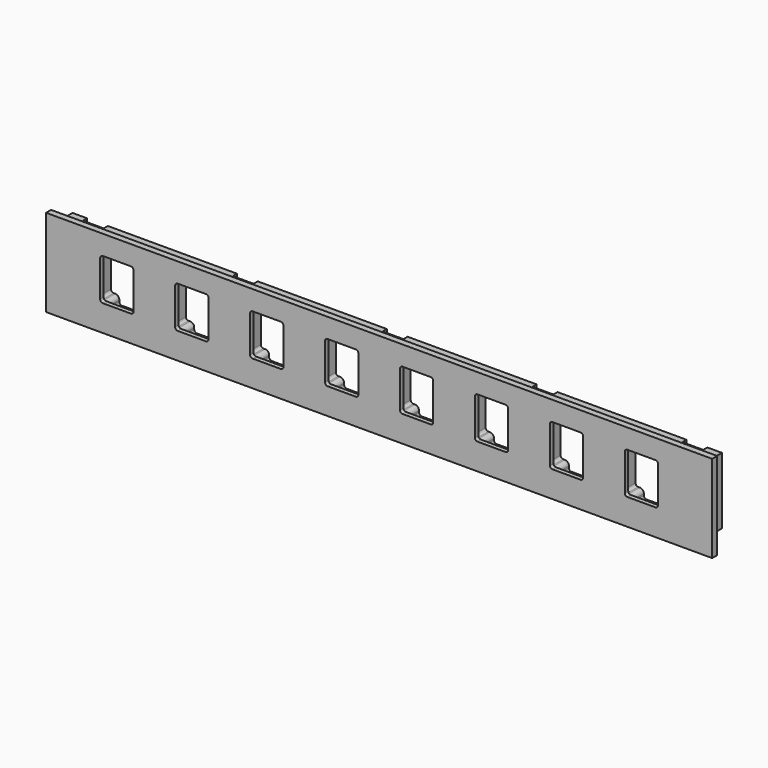
from build123d import *

# Parameters (mm, degrees)
F0_W     = 406.4
F0_H     = 53.34
F1_DEPTH = 3.81
F2_W     = 396.24
F2_H     = 40.64
F3_DEPTH = 11.557
F4_W     = 12.7
F4_H     = 40.64
F5_DEPTH = 3.175
F6_R     = 1.27
F7_DEPTH = 12.7
F8_W     = 20.32
F8_H     = 25.4
F9_DEPTH = 25.4
F10_R    = 1.5875
F11_R    = 1.5875


with BuildPart() as f1:
    # F0 (on Front) → F1 (new body)
    with BuildSketch(Plane.XZ):
        Rectangle(F0_W, F0_H)
    extrude(amount=F1_DEPTH)

    # F2 (on face) → F3 (join)
    with BuildSketch(Plane(origin=(0, 0, 0), x_dir=(-1, 0, 0), z_dir=(0, 1, 0))):
        with Locations((1.27, 1.27)):
            Rectangle(F2_W, F2_H)
    extrude(amount=F3_DEPTH)

    # F4 (on face) → F5 (cut)
    with BuildSketch(Plane(origin=(0, 11.557, 0), x_dir=(-1, 0, 0), z_dir=(0, 1, 0))):
        with Locations((1.27, 1.27)):
            Rectangle(F4_W, F4_H)
        with Locations((92.71, 1.27)):
            Rectangle(F4_W, F4_H)
        with Locations((184.15, 1.27)):
            Rectangle(F4_W, F4_H)
        with Locations((-90.17, 1.27)):
            Rectangle(F4_W, F4_H)
        with Locations((-181.61, 1.27)):
            Rectangle(F4_W, F4_H)
    extrude(amount=-F5_DEPTH, mode=Mode.SUBTRACT)

    # F6 (on face) → F7 (cut)
    with BuildSketch(Plane(origin=(0, 11.557, 0), x_dir=(-1, 0, 0), z_dir=(0, 1, 0))):
        with Locations((-170.815, 18.415)):
            Circle(F6_R)
        with Locations((-146.685, 18.415)):
            Circle(F6_R)
        with Locations((-146.685, -15.875)):
            Circle(F6_R)
        with Locations((-170.815, -15.875)):
            Circle(F6_R)
        with BuildLine():
            ThreePointArc((-168.275, 18.415), (-169.018949, 16.618949), (-170.815, 15.875))
            Line((-170.815, 15.875), (-173.355, 15.875))
            Line((-173.355, 15.875), (-173.355, -13.335))
            Line((-173.355, -13.335), (-170.815, -13.335))
            ThreePointArc((-170.815, -13.335), (-169.018949, -14.078949), (-168.275, -15.875))
            Line((-168.275, -15.875), (-168.275, -18.415))
            Line((-168.275, -18.415), (-149.225, -18.415))
            Line((-149.225, -18.415), (-149.225, -15.875))
            ThreePointArc((-149.225, -15.875), (-148.481051, -14.078949), (-146.685, -13.335))
            Line((-146.685, -13.335), (-144.145, -13.335))
            Line((-144.145, -13.335), (-144.145, 15.875))
            Line((-144.145, 15.875), (-146.685, 15.875))
            ThreePointArc((-146.685, 15.875), (-148.481051, 16.618949), (-149.225, 18.415))
            Line((-149.225, 18.415), (-149.225, 20.955))
            Line((-149.225, 20.955), (-168.275, 20.955))
            Line((-168.275, 20.955), (-168.275, 18.415))
        make_face()
        with BuildLine():
            Line((-98.425, -13.335), (-98.425, 15.875))
            Line((-98.425, 15.875), (-100.965, 15.875))
            ThreePointArc((-100.965, 15.875), (-102.761051, 16.618949), (-103.505, 18.415))
            Line((-103.505, 18.415), (-103.505, 20.955))
            Line((-103.505, 20.955), (-122.555, 20.955))
            Line((-122.555, 20.955), (-122.555, 18.415))
            ThreePointArc((-122.555, 18.415), (-123.298949, 16.618949), (-125.095, 15.875))
            Line((-125.095, 15.875), (-127.635, 15.875))
            Line((-127.635, 15.875), (-127.635, -13.335))
            Line((-127.635, -13.335), (-125.095, -13.335))
            ThreePointArc((-125.095, -13.335), (-123.298949, -14.078949), (-122.555, -15.875))
            Line((-122.555, -15.875), (-122.555, -18.415))
            Line((-122.555, -18.415), (-103.505, -18.415))
            Line((-103.505, -18.415), (-103.505, -15.875))
            ThreePointArc((-103.505, -15.875), (-102.761051, -14.078949), (-100.965, -13.335))
            Line((-100.965, -13.335), (-98.425, -13.335))
        make_face()
        with Locations((-125.095, 18.415)):
            Circle(F6_R)
        with Locations((-125.095, -15.875)):
            Circle(F6_R)
        with Locations((-100.965, 18.415)):
            Circle(F6_R)
        with Locations((-100.965, -15.875)):
            Circle(F6_R)
        with BuildLine():
            Line((-52.705, -13.335), (-52.705, 15.875))
            Line((-52.705, 15.875), (-55.245, 15.875))
            ThreePointArc((-55.245, 15.875), (-57.041051, 16.618949), (-57.785, 18.415))
            Line((-57.785, 18.415), (-57.785, 20.955))
            Line((-57.785, 20.955), (-76.835, 20.955))
            Line((-76.835, 20.955), (-76.835, 18.415))
            ThreePointArc((-76.835, 18.415), (-77.578949, 16.618949), (-79.375, 15.875))
            Line((-79.375, 15.875), (-81.915, 15.875))
            Line((-81.915, 15.875), (-81.915, -13.335))
            Line((-81.915, -13.335), (-79.375, -13.335))
            ThreePointArc((-79.375, -13.335), (-77.578949, -14.078949), (-76.835, -15.875))
            Line((-76.835, -15.875), (-76.835, -18.415))
            Line((-76.835, -18.415), (-57.785, -18.415))
            Line((-57.785, -18.415), (-57.785, -15.875))
            ThreePointArc((-57.785, -15.875), (-57.041051, -14.078949), (-55.245, -13.335))
            Line((-55.245, -13.335), (-52.705, -13.335))
        make_face()
        with Locations((-79.375, 18.415)):
            Circle(F6_R)
        with Locations((-79.375, -15.875)):
            Circle(F6_R)
        with Locations((-55.245, 18.415)):
            Circle(F6_R)
        with Locations((-55.245, -15.875)):
            Circle(F6_R)
        with BuildLine():
            Line((-6.985, -13.335), (-6.985, 15.875))
            Line((-6.985, 15.875), (-9.525, 15.875))
            ThreePointArc((-9.525, 15.875), (-11.321051, 16.618949), (-12.065, 18.415))
            Line((-12.065, 18.415), (-12.065, 20.955))
            Line((-12.065, 20.955), (-31.115, 20.955))
            Line((-31.115, 20.955), (-31.115, 18.415))
            ThreePointArc((-31.115, 18.415), (-31.858949, 16.618949), (-33.655, 15.875))
            Line((-33.655, 15.875), (-36.195, 15.875))
            Line((-36.195, 15.875), (-36.195, -13.335))
            Line((-36.195, -13.335), (-33.655, -13.335))
            ThreePointArc((-33.655, -13.335), (-31.858949, -14.078949), (-31.115, -15.875))
            Line((-31.115, -15.875), (-31.115, -18.415))
            Line((-31.115, -18.415), (-12.065, -18.415))
            Line((-12.065, -18.415), (-12.065, -15.875))
            ThreePointArc((-12.065, -15.875), (-11.321051, -14.078949), (-9.525, -13.335))
            Line((-9.525, -13.335), (-6.985, -13.335))
        make_face()
        with Locations((-33.655, 18.415)):
            Circle(F6_R)
        with Locations((-33.655, -15.875)):
            Circle(F6_R)
        with Locations((-9.525, 18.415)):
            Circle(F6_R)
        with Locations((-9.525, -15.875)):
            Circle(F6_R)
        with BuildLine():
            Line((38.735, -13.335), (38.735, 15.875))
            Line((38.735, 15.875), (36.195, 15.875))
            ThreePointArc((36.195, 15.875), (34.398949, 16.618949), (33.655, 18.415))
            Line((33.655, 18.415), (33.655, 20.955))
            Line((33.655, 20.955), (14.605, 20.955))
            Line((14.605, 20.955), (14.605, 18.415))
            ThreePointArc((14.605, 18.415), (13.861051, 16.618949), (12.065, 15.875))
            Line((12.065, 15.875), (9.525, 15.875))
            Line((9.525, 15.875), (9.525, -13.335))
            Line((9.525, -13.335), (12.065, -13.335))
            ThreePointArc((12.065, -13.335), (13.861051, -14.078949), (14.605, -15.875))
            Line((14.605, -15.875), (14.605, -18.415))
            Line((14.605, -18.415), (33.655, -18.415))
            Line((33.655, -18.415), (33.655, -15.875))
            ThreePointArc((33.655, -15.875), (34.398949, -14.078949), (36.195, -13.335))
            Line((36.195, -13.335), (38.735, -13.335))
        make_face()
        with Locations((12.065, 18.415)):
            Circle(F6_R)
        with Locations((12.065, -15.875)):
            Circle(F6_R)
        with Locations((36.195, 18.415)):
            Circle(F6_R)
        with Locations((36.195, -15.875)):
            Circle(F6_R)
        with BuildLine():
            Line((84.455, -13.335), (84.455, 15.875))
            Line((84.455, 15.875), (81.915, 15.875))
            ThreePointArc((81.915, 15.875), (80.118949, 16.618949), (79.375, 18.415))
            Line((79.375, 18.415), (79.375, 20.955))
            Line((79.375, 20.955), (60.325, 20.955))
            Line((60.325, 20.955), (60.325, 18.415))
            ThreePointArc((60.325, 18.415), (59.581051, 16.618949), (57.785, 15.875))
            Line((57.785, 15.875), (55.245, 15.875))
            Line((55.245, 15.875), (55.245, -13.335))
            Line((55.245, -13.335), (57.785, -13.335))
            ThreePointArc((57.785, -13.335), (59.581051, -14.078949), (60.325, -15.875))
            Line((60.325, -15.875), (60.325, -18.415))
            Line((60.325, -18.415), (79.375, -18.415))
            Line((79.375, -18.415), (79.375, -15.875))
            ThreePointArc((79.375, -15.875), (80.118949, -14.078949), (81.915, -13.335))
            Line((81.915, -13.335), (84.455, -13.335))
        make_face()
        with Locations((57.785, 18.415)):
            Circle(F6_R)
        with Locations((57.785, -15.875)):
            Circle(F6_R)
        with Locations((81.915, 18.415)):
            Circle(F6_R)
        with Locations((81.915, -15.875)):
            Circle(F6_R)
        with BuildLine():
            Line((130.175, -13.335), (130.175, 15.875))
            Line((130.175, 15.875), (127.635, 15.875))
            ThreePointArc((127.635, 15.875), (125.838949, 16.618949), (125.095, 18.415))
            Line((125.095, 18.415), (125.095, 20.955))
            Line((125.095, 20.955), (106.045, 20.955))
            Line((106.045, 20.955), (106.045, 18.415))
            ThreePointArc((106.045, 18.415), (105.301051, 16.618949), (103.505, 15.875))
            Line((103.505, 15.875), (100.965, 15.875))
            Line((100.965, 15.875), (100.965, -13.335))
            Line((100.965, -13.335), (103.505, -13.335))
            ThreePointArc((103.505, -13.335), (105.301051, -14.078949), (106.045, -15.875))
            Line((106.045, -15.875), (106.045, -18.415))
            Line((106.045, -18.415), (125.095, -18.415))
            Line((125.095, -18.415), (125.095, -15.875))
            ThreePointArc((125.095, -15.875), (125.838949, -14.078949), (127.635, -13.335))
            Line((127.635, -13.335), (130.175, -13.335))
        make_face()
        with Locations((103.505, 18.415)):
            Circle(F6_R)
        with Locations((103.505, -15.875)):
            Circle(F6_R)
        with Locations((127.635, 18.415)):
            Circle(F6_R)
        with Locations((127.635, -15.875)):
            Circle(F6_R)
        with BuildLine():
            Line((175.895, -13.335), (175.895, 15.875))
            Line((175.895, 15.875), (173.355, 15.875))
            ThreePointArc((173.355, 15.875), (171.558949, 16.618949), (170.815, 18.415))
            Line((170.815, 18.415), (170.815, 20.955))
            Line((170.815, 20.955), (151.765, 20.955))
            Line((151.765, 20.955), (151.765, 18.415))
            ThreePointArc((151.765, 18.415), (151.021051, 16.618949), (149.225, 15.875))
            Line((149.225, 15.875), (146.685, 15.875))
            Line((146.685, 15.875), (146.685, -13.335))
            Line((146.685, -13.335), (149.225, -13.335))
            ThreePointArc((149.225, -13.335), (151.021051, -14.078949), (151.765, -15.875))
            Line((151.765, -15.875), (151.765, -18.415))
            Line((151.765, -18.415), (170.815, -18.415))
            Line((170.815, -18.415), (170.815, -15.875))
            ThreePointArc((170.815, -15.875), (171.558949, -14.078949), (173.355, -13.335))
            Line((173.355, -13.335), (175.895, -13.335))
        make_face()
        with Locations((149.225, 18.415)):
            Circle(F6_R)
        with Locations((149.225, -15.875)):
            Circle(F6_R)
        with Locations((173.355, 18.415)):
            Circle(F6_R)
        with Locations((173.355, -15.875)):
            Circle(F6_R)
    extrude(amount=-F7_DEPTH, mode=Mode.SUBTRACT)

    # F8 (on face) → F9 (cut)
    with BuildSketch(Plane.XZ.offset(3.81)):
        with Locations((-22.86, 2.032)):
            Rectangle(F8_W, F8_H)
        with Locations((-68.58, 2.032)):
            Rectangle(F8_W, F8_H)
        with Locations((-114.3, 2.032)):
            Rectangle(F8_W, F8_H)
        with Locations((-160.02, 2.032)):
            Rectangle(F8_W, F8_H)
        with Locations((68.58, 2.032)):
            Rectangle(F8_W, F8_H)
        with Locations((160.02, 2.032)):
            Rectangle(F8_W, F8_H)
        with Locations((114.3, 2.032)):
            Rectangle(F8_W, F8_H)
        with Locations((22.86, 2.032)):
            Rectangle(F8_W, F8_H)
    extrude(amount=-F9_DEPTH, mode=Mode.SUBTRACT)

    # F10
    f10_edges = [f1.edges().sort_by_distance(p)[0] for p in [
        (-170.18, -2.4765, -10.668),
        (-149.86, -2.4765, -10.668),
        (-170.18, -2.4765, 14.732),
        (-149.86, -2.4765, 14.732),
        (-104.14, -2.4765, 14.732),
        (-104.14, -2.4765, -10.668),
        (-58.42, -2.4765, -10.668),
        (-58.42, -2.4765, 14.732),
        (-12.7, -2.4765, 14.732),
        (-12.7, -2.4765, -10.668),
        (33.02, -2.4765, 14.732),
        (33.02, -2.4765, -10.668),
        (78.74, -2.4765, -10.668),
        (78.74, -2.4765, 14.732),
        (124.46, -2.4765, -10.668),
        (124.46, -2.4765, 14.732),
        (170.18, -2.4765, 14.732),
        (170.18, -2.4765, -10.668),
        (149.86, -2.4765, -10.668),
        (149.86, -2.4765, 14.732),
        (104.14, -2.4765, 14.732),
        (104.14, -2.4765, -10.668),
        (58.42, -2.4765, -10.668),
        (58.42, -2.4765, 14.732),
        (12.7, -2.4765, 14.732),
        (12.7, -2.4765, -10.668),
        (-33.02, -2.4765, -10.668),
        (-33.02, -2.4765, 14.732),
        (-78.74, -2.4765, 14.732),
        (-78.74, -2.4765, -10.668),
        (-124.46, -2.4765, -10.668),
        (-124.46, -2.4765, 14.732),
    ]]
    fillet(f10_edges, radius=F10_R)

    # F11
    f11_edges = [f1.edges().sort_by_distance(p)[0] for p in [
        (173.355, 5.207, -13.335),
        (168.275, 5.207, -18.415),
        (173.355, 5.207, 15.875),
        (168.275, 5.207, 20.955),
        (149.225, 5.207, 20.955),
        (144.145, 5.207, 15.875),
        (144.145, 5.207, -13.335),
        (149.225, 5.207, -18.415),
        (122.555, 5.207, -18.415),
        (127.635, 5.207, -13.335),
        (127.635, 5.207, 15.875),
        (122.555, 5.207, 20.955),
        (103.505, 5.207, 20.955),
        (98.425, 5.207, 15.875),
        (103.505, 5.207, -18.415),
        (98.425, 5.207, -13.335),
        (57.785, 5.207, -18.415),
        (52.705, 5.207, -13.335),
        (76.835, 5.207, -18.415),
        (81.915, 5.207, -13.335),
        (76.835, 5.207, 20.955),
        (81.915, 5.207, 15.875),
        (52.705, 5.207, 15.875),
        (57.785, 5.207, 20.955),
        (12.065, 5.207, 20.955),
        (6.985, 5.207, 15.875),
        (36.195, 5.207, 15.875),
        (31.115, 5.207, 20.955),
        (31.115, 5.207, -18.415),
        (36.195, 5.207, -13.335),
        (12.065, 5.207, -18.415),
        (6.985, 5.207, -13.335),
        (-14.605, 5.207, -18.415),
        (-9.525, 5.207, -13.335),
        (-9.525, 5.207, 15.875),
        (-14.605, 5.207, 20.955),
        (-33.655, 5.207, 20.955),
        (-38.735, 5.207, 15.875),
        (-38.735, 5.207, -13.335),
        (-33.655, 5.207, -18.415),
        (-60.325, 5.207, -18.415),
        (-55.245, 5.207, -13.335),
        (-55.245, 5.207, 15.875),
        (-60.325, 5.207, 20.955),
        (-79.375, 5.207, 20.955),
        (-84.455, 5.207, 15.875),
        (-84.455, 5.207, -13.335),
        (-79.375, 5.207, -18.415),
        (-125.095, 5.207, -18.415),
        (-130.175, 5.207, -13.335),
        (-130.175, 5.207, 15.875),
        (-125.095, 5.207, 20.955),
        (-100.965, 5.207, 15.875),
        (-106.045, 5.207, 20.955),
        (-106.045, 5.207, -18.415),
        (-100.965, 5.207, -13.335),
        (-146.685, 5.207, -13.335),
        (-151.765, 5.207, -18.415),
        (-170.815, 5.207, -18.415),
        (-175.895, 5.207, -13.335),
        (-146.685, 5.207, 15.875),
        (-151.765, 5.207, 20.955),
        (-175.895, 5.207, 15.875),
        (-170.815, 5.207, 20.955),
    ]]
    fillet(f11_edges, radius=F11_R)


solid = f1.part
